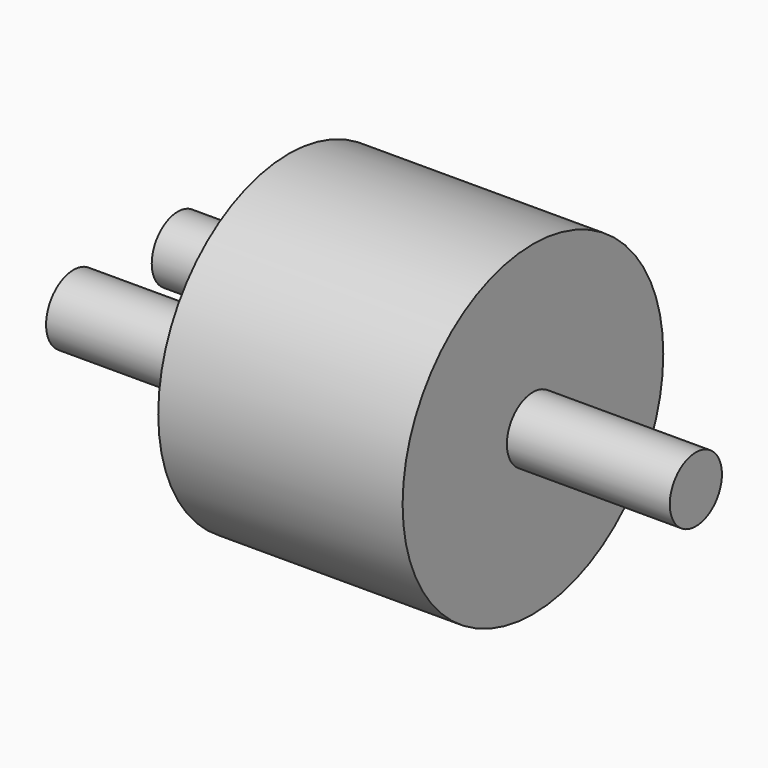
from build123d import *

# Parameters (mm, degrees)
F0_R     = 12.7
F1_DEPTH = 19.05
F2_R     = 2.54
F3_DEPTH = 12.7
F4_R     = 2.54
F4_R_2   = 2.674386
F5_DEPTH = 12.7


with BuildPart() as f1:
    # F0 (on Right) → F1 (new body)
    with BuildSketch(Plane.YZ):
        Circle(F0_R)
    extrude(amount=F1_DEPTH)

    # F2 (on face) → F3 (join)
    with BuildSketch(Plane.YZ.offset(19.05)):
        Circle(F2_R)
    extrude(amount=F3_DEPTH)

    # F4 (on face) → F5 (join)
    with BuildSketch(Plane(origin=(0, 0, 0), x_dir=(0, -1, 0), z_dir=(-1, 0, 0))):
        with Locations((-5.08, 0)):
            Circle(F4_R)
        with Locations((5.08, 0)):
            Circle(F4_R_2)
    extrude(amount=F5_DEPTH)


solid = f1.part
